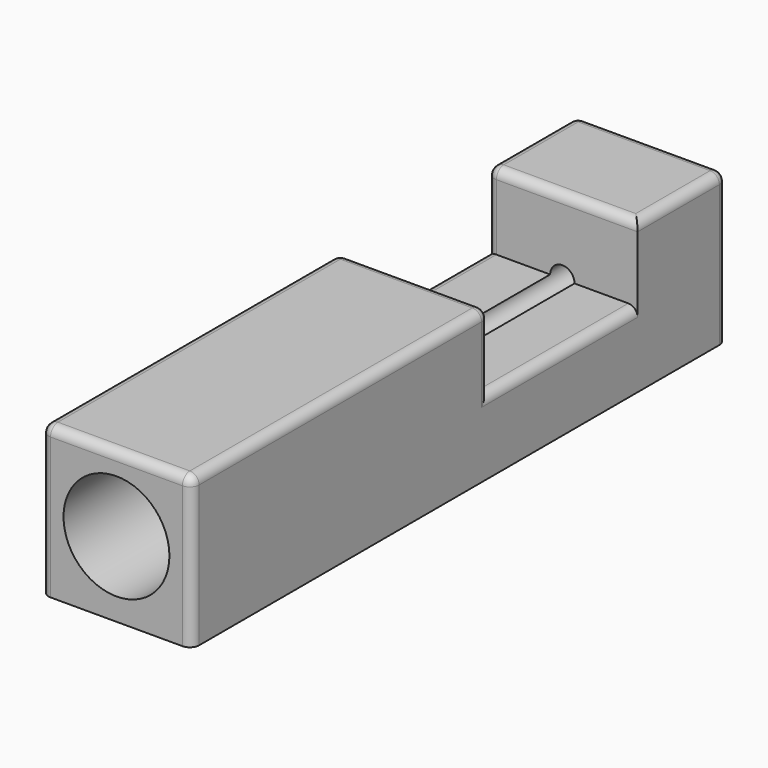
from build123d import *

# Parameters (mm, degrees)
SKETCH_W        = 8.1
SKETCH_H        = 36
PAD_DEPTH       = 4.05
SKETCH001_R     = 2.85
POCKET_DEPTH    = 20
SKETCH002_R     = 0.655
POCKET001_DEPTH = 16
SKETCH003_W     = 12.15
SKETCH003_H     = 10
POCKET002_DEPTH = 4.05
FILLET_R        = 0.5


with BuildPart() as part:
    # Sketch → Pad (new body, symmetric)
    with BuildSketch(Plane.XY):
        with Locations((0, 18)):
            Rectangle(SKETCH_W, SKETCH_H)
    extrude(amount=PAD_DEPTH, both=True)

    # Sketch001 → Pocket (cut)
    with BuildSketch(Plane.XZ):
        Circle(SKETCH001_R)
    extrude(amount=-POCKET_DEPTH, mode=Mode.SUBTRACT)

    # Sketch002 (on DatumPlane) → Pocket001 (cut)
    with BuildSketch(Plane(origin=(0, 36, 0), x_dir=(-1, 0, 0), z_dir=(0, 1, 0))):
        Circle(SKETCH002_R)
    extrude(amount=-POCKET001_DEPTH, mode=Mode.SUBTRACT)

    # Sketch003 (on DatumPlane) → Pocket002 (cut)
    with BuildSketch(Plane.XY.offset(4.05)):
        with Locations((0, 25)):
            Rectangle(SKETCH003_W, SKETCH003_H)
    extrude(amount=-POCKET002_DEPTH, mode=Mode.SUBTRACT)

    # Fillet
    fillet_edges = [part.edges().sort_by_distance(p)[0] for p in [
        (4.05, 36, 0),
        (0, 36, 4.05),
        (-4.05, 36, 0),
        (4.05, 33, 4.05),
        (-4.05, 33, 4.05),
        (-4.05, 10, 4.05),
        (4.05, 0, 0),
        (0, 0, 4.05),
        (-4.05, 0, 0),
        (4.05, 10, 4.05),
        (4.05, 20, 2.025),
        (4.05, 25, 0),
        (0, 20, 4.05),
        (-4.05, 20, 2.025),
        (-4.05, 25, 0),
        (-4.05, 30, 2.025),
        (0, 30, 4.05),
    ]]
    fillet(fillet_edges, radius=FILLET_R)


solid = part.part
